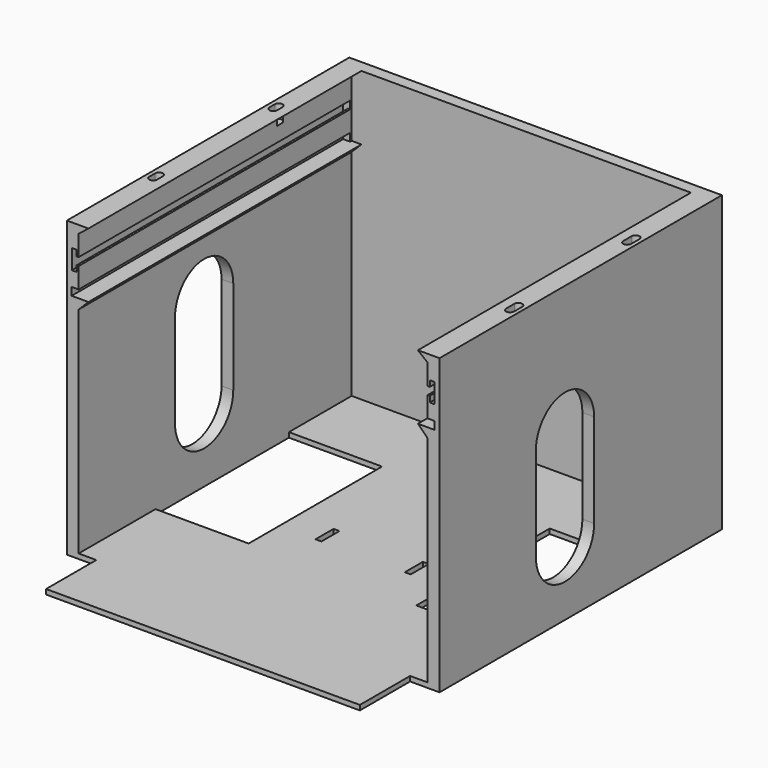
from build123d import *

# Parameters (mm, degrees)
SKETCH_W        = 190
SKETCH_H        = 220
PAD_DEPTH       = 150
SKETCH001_W     = 178
SKETCH001_H     = 208
POCKET_DEPTH    = 147.5
SKETCH002_W     = 45
SKETCH002_H     = 85
SKETCH002_W_2   = 47.5
POCKET001_DEPTH = 100
SKETCH003_W     = 3
SKETCH003_H     = 11.5
POCKET002_DEPTH = 100
SKETCH004_W     = 15
SKETCH004_H     = 40
POCKET003_DEPTH = 150
SKETCH005_W     = 194.070648
SKETCH005_H     = 26.911476
POCKET004_DEPTH = 150.001
SKETCH006_W     = 2.43538
SKETCH006_H     = 10
SKETCH006_W_2   = 2.4
POCKET005_DEPTH = 173
SKETCH007_W     = 3.424065
SKETCH007_H     = 4
SKETCH007_W_2   = 3.834519
POCKET006_DEPTH = 173
SKETCH008_W     = 185.053348
SKETCH008_H     = 4
POCKET007_DEPTH = 173
PAD001_DEPTH    = 174
PAD002_DEPTH    = 174
POCKET008_DEPTH = 7
POCKET009_DEPTH = 200


with BuildPart() as part:
    # Sketch → Pad (new body)
    with BuildSketch(Plane.XY):
        with Locations((1.898805, 2.824203)):
            Rectangle(SKETCH_W, SKETCH_H)
    extrude(amount=PAD_DEPTH)

    # Sketch001 (on Face6 of Pad) → Pocket (cut)
    with BuildSketch(Plane.XY.offset(150)):
        with Locations((1.898805, 2.824203)):
            Rectangle(SKETCH001_W, SKETCH001_H)
    extrude(amount=-POCKET_DEPTH, mode=Mode.SUBTRACT)

    # Sketch002 (on Face4 of Pocket) → Pocket001 (cut)
    with BuildSketch(Plane(origin=(0, 0, 0), x_dir=(1, 0, 0), z_dir=(0, 0, -1))):
        with Locations((68.398805, -24.324203)):
            Rectangle(SKETCH002_W, SKETCH002_H)
        with Locations((-63.351195, -24.324203)):
            Rectangle(SKETCH002_W_2, SKETCH002_H)
    extrude(amount=-POCKET001_DEPTH, mode=Mode.SUBTRACT)

    # Sketch003 (on Face4 of Pocket001) → Pocket002 (cut)
    with BuildSketch(Plane(origin=(0, 0, 0), x_dir=(1, 0, 0), z_dir=(0, 0, -1))):
        with Locations((-19.601195, -7.074203)):
            Rectangle(SKETCH003_W, SKETCH003_H)
        with Locations((25.898805, -7.074203)):
            Rectangle(SKETCH003_W, SKETCH003_H)
    extrude(amount=-POCKET002_DEPTH, mode=Mode.SUBTRACT)

    # Sketch004 (on Face4 of Pocket002) → Pocket003 (cut)
    with BuildSketch(Plane(origin=(0, 0, 0), x_dir=(1, 0, 0), z_dir=(0, 0, -1))):
        with Locations((-85.601195, 87.175797)):
            Rectangle(SKETCH004_W, SKETCH004_H)
        with Locations((89.398805, 87.175797)):
            Rectangle(SKETCH004_W, SKETCH004_H)
    extrude(amount=-POCKET003_DEPTH, mode=Mode.SUBTRACT)

    # Sketch005 (on Face2 of Pocket003) → Pocket004 (cut, through all)
    with BuildSketch(Plane(origin=(0, 0, 0), x_dir=(1, 0, 0), z_dir=(0, 0, -1))):
        with Locations((-2.19445, 112.631535)):
            Rectangle(SKETCH005_W, SKETCH005_H)
    extrude(amount=-POCKET004_DEPTH, mode=Mode.SUBTRACT)

    # Sketch006 (on DatumPlane) → Pocket005 (cut)
    with BuildSketch(Plane.XZ.offset(67.175797)):
        with Locations((93.181115, 133.506973)):
            Rectangle(SKETCH006_W, SKETCH006_H)
        with Locations((-89.401195, 133.506973)):
            Rectangle(SKETCH006_W_2, SKETCH006_H)
    extrude(amount=-POCKET005_DEPTH, mode=Mode.SUBTRACT)

    # Sketch007 (on DatumPlane) → Pocket006 (cut)
    with BuildSketch(Plane.XZ.offset(67.175797)):
        with Locations((-87.572056, 133.506973)):
            Rectangle(SKETCH007_W, SKETCH007_H)
        with Locations((91.170921, 133.506973)):
            Rectangle(SKETCH007_W_2, SKETCH007_H)
    extrude(amount=-POCKET006_DEPTH, mode=Mode.SUBTRACT)

    # Sketch008 (on DatumPlane) → Pocket007 (cut)
    with BuildSketch(Plane.XZ.offset(67.175797)):
        with Locations((1.872131, 119.006973)):
            Rectangle(SKETCH008_W, SKETCH008_H)
    extrude(amount=-POCKET007_DEPTH, mode=Mode.SUBTRACT)

    # Sketch009 (on DatumPlane) → Pad001 (join)
    with BuildSketch(Plane.XZ.offset(67.175797)):
        Polygon((-87.101195, 117.006973), (-82.101195, 117.006973), (-87.101195, 112.006973), align=None)
        Polygon((90.898805, 117.006973), (85.898805, 117.006973), (90.898805, 112.006973), align=None)
    extrude(amount=-PAD001_DEPTH)

    # Sketch011 (on DatumPlane) → Pad002 (join)
    with BuildSketch(Plane.XZ.offset(67.175797)):
        Polygon((-87.101195, 150), (-82.101195, 150), (-87.101195, 146), align=None)
        Polygon((90.898805, 150), (90.898805, 146), (85.898805, 150), align=None)
    extrude(amount=-PAD002_DEPTH)

    # Sketch013 (on DatumPlane) → Pocket008 (cut)
    with BuildSketch(Plane.XY.offset(150)):
        with BuildLine():
            ThreePointArc((-87.098357, 62.824203), (-89.101195, 64.827042), (-91.104034, 62.824203))
            Line((-91.104034, 62.824203), (-91.104034, 59.41515))
            ThreePointArc((-91.104034, 59.41515), (-89.101195, 57.412311), (-87.098357, 59.41515))
            Line((-87.098357, 62.824203), (-87.098357, 59.41515))
        make_face()
        with BuildLine():
            ThreePointArc((-91.096694, -17.175797), (-89.101195, -19.171295), (-87.105697, -17.175797))
            Line((-87.105697, -17.175797), (-87.105697, -13.409031))
            ThreePointArc((-87.105697, -13.409031), (-89.101195, -11.413533), (-91.096694, -13.409031))
            Line((-91.096694, -17.175797), (-91.096694, -13.409031))
        make_face()
        with BuildLine():
            ThreePointArc((90.858933, -17.175797), (92.898805, -19.215669), (94.938676, -17.175797))
            Line((94.938676, -17.175797), (94.938676, -11.974619))
            ThreePointArc((94.938676, -11.974619), (92.898805, -9.934747), (90.858933, -11.974619))
            Line((90.858933, -17.175797), (90.858933, -11.974619))
        make_face()
        with BuildLine():
            ThreePointArc((94.89608, 62.824203), (92.898805, 64.821478), (90.901529, 62.824203))
            Line((90.901529, 62.824203), (90.901529, 57.425644))
            ThreePointArc((90.901529, 57.425644), (92.898805, 55.428369), (94.89608, 57.425644))
            Line((94.89608, 62.824203), (94.89608, 57.425644))
        make_face()
    extrude(amount=-POCKET008_DEPTH, mode=Mode.SUBTRACT)

    # Sketch019 (on Face6 of Pocket008) → Pocket009 (cut)
    with BuildSketch(Plane.YZ.offset(96.898805)):
        with BuildLine():
            ThreePointArc((-5.733227, 35.71838), (12.824203, 17.16095), (31.381633, 35.71838))
            Line((31.381633, 35.71838), (31.381633, 83.615097))
            ThreePointArc((31.381633, 83.615097), (12.824203, 102.172527), (-5.733227, 83.615097))
            Line((-5.733227, 35.71838), (-5.733227, 83.615097))
        make_face()
    extrude(amount=-POCKET009_DEPTH, mode=Mode.SUBTRACT)


solid = part.part
